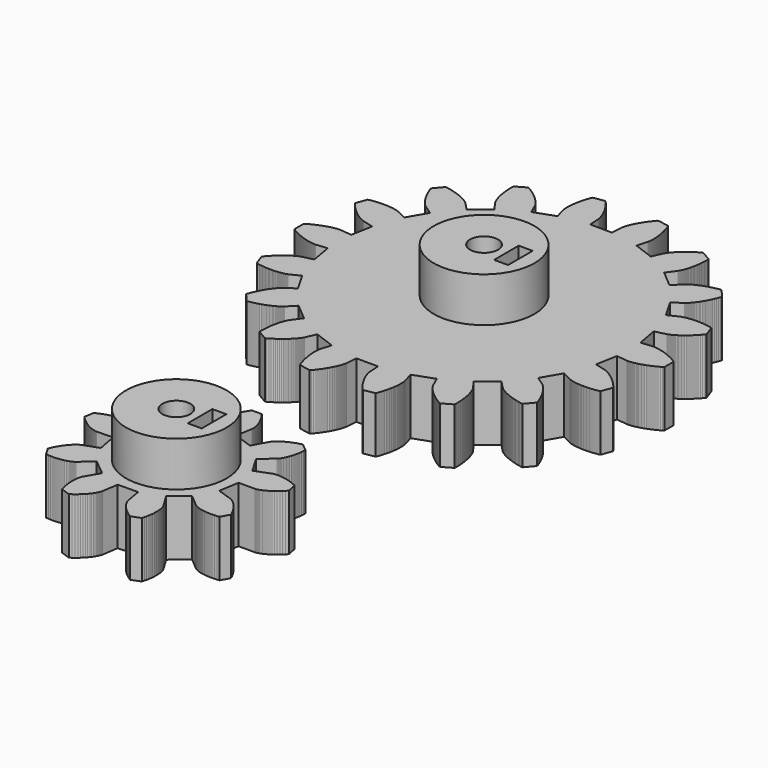
from build123d import *

# Parameters (mm, degrees)
F0_R     = 9
F1_DEPTH = 10
F0_R_2   = 2.5
F0_W     = 2.5
F0_H     = 5.5
F2_DEPTH = 18


with BuildPart() as f1:
    # F0 (on Top) → F1 (new body)
    with BuildSketch(Plane.XY):
        Polygon((25.237184, 18.592396), (25.925709, 22.398373), (27.935455, 22.187181), (27.950182, 22.186053), (27.975495, 22.184615), (28.011372, 22.183228), (28.05784, 22.182351), (28.114881, 22.182367), (28.182458, 22.183699), (28.260551, 22.18673), (28.349128, 22.191905), (28.44811, 22.199633), (28.557437, 22.210281), (28.677013, 22.224279), (28.806779, 22.242015), (28.946598, 22.263902), (29.09639, 22.290332), (29.255976, 22.321682), (29.425259, 22.358364), (29.604079, 22.400776), (29.792271, 22.449254), (29.989661, 22.504219), (30.196064, 22.56603), (30.4113, 22.635066), (30.635126, 22.711675), (30.867359, 22.796215), (31.107777, 22.889051), (31.356115, 22.990531), (31.612127, 23.100981), (31.87557, 23.220748), (32.146177, 23.35016), (32.423663, 23.489547), (32.707738, 23.639201), (32.998093, 23.799434), (33.188421, 23.974207), (33.197319, 25.977627), (33.008548, 26.1541), (32.719608, 26.316898), (32.436883, 26.469066), (32.160645, 26.610895), (31.891209, 26.742714), (31.628845, 26.864813), (31.373809, 26.977527), (31.126378, 27.081208), (30.886809, 27.176189), (30.655333, 27.262786), (30.432192, 27.341375), (30.217583, 27.412315), (30.011742, 27.475942), (29.814832, 27.532661), (29.62709, 27.582826), (29.448654, 27.626804), (29.279709, 27.664997), (29.120391, 27.697769), (28.970844, 27.725528), (28.831229, 27.748657), (28.701626, 27.767548), (28.582179, 27.782607), (28.472949, 27.794227), (28.374039, 27.80282), (28.285511, 27.808779), (28.207448, 27.812516), (28.139873, 27.814449), (28.082849, 27.814973), (28.03638, 27.814508), (28.000487, 27.813452), (27.975172, 27.812206), (27.960423, 27.811212), (25.948891, 27.617891), (25.294171, 31.429815), (27.254929, 31.918736), (27.269173, 31.922728), (27.293459, 31.930013), (27.327649, 31.940984), (27.371607, 31.956058), (27.425187, 31.975571), (27.488253, 31.999936), (27.560602, 32.029516), (27.642052, 32.064671), (27.73242, 32.105761), (27.831506, 32.153167), (27.939105, 32.207231), (28.054971, 32.26828), (28.17888, 32.336658), (28.31059, 32.41273), (28.449831, 32.496787), (28.596356, 32.589153), (28.7499, 32.690158), (28.910151, 32.800075), (29.076824, 32.919254), (29.249644, 33.047924), (29.428283, 33.186401), (29.612427, 33.334938), (29.801745, 33.49381), (29.995882, 33.663274), (30.194542, 33.843563), (30.397353, 34.034936), (30.603933, 34.237572), (30.813968, 34.451746), (31.027035, 34.677602), (31.242799, 34.915396), (31.460834, 35.165273), (31.579924, 35.394615), (30.903074, 37.280241), (30.665328, 37.381522), (30.338144, 37.435684), (30.020411, 37.481982), (29.712327, 37.520774), (29.414057, 37.552484), (29.125739, 37.577478), (28.847539, 37.59618), (28.579577, 37.608977), (28.321977, 37.616278), (28.07484, 37.618492), (27.838272, 37.616029), (27.612352, 37.609281), (27.397147, 37.598682), (27.19272, 37.584647), (26.999132, 37.567569), (26.816428, 37.547864), (26.644591, 37.525956), (26.483688, 37.502277), (26.333678, 37.477213), (26.194566, 37.451184), (26.066316, 37.424614), (25.94891, 37.397906), (25.842291, 37.371467), (25.746424, 37.345721), (25.661186, 37.321041), (25.586564, 37.297851), (25.522399, 37.276566), (25.468629, 37.257535), (25.425121, 37.241211), (25.39175, 37.22793), (25.36838, 37.218125), (25.354868, 37.212132), (23.530781, 36.342491), (21.611773, 39.7006), (23.287067, 40.830664), (23.299091, 40.839277), (23.319416, 40.854431), (23.347794, 40.876432), (23.38394, 40.90563), (23.427624, 40.94231), (23.478537, 40.986765), (23.53641, 41.039304), (23.600931, 41.1002), (23.671808, 41.169724), (23.748711, 41.248151), (23.831323, 41.335735), (23.919315, 41.432751), (24.012365, 41.539393), (24.110099, 41.6559), (24.212202, 41.782527), (24.31831, 41.919431), (24.428028, 42.066855), (24.541034, 42.224973), (24.656905, 42.393948), (24.775299, 42.573978), (24.895792, 42.765207), (25.018016, 42.967755), (25.141568, 43.181802), (25.26606, 43.407452), (25.39108, 43.644806), (25.516202, 43.89399), (25.641033, 44.155085), (25.765139, 44.428157), (25.888109, 44.713289), (26.009526, 45.010525), (26.128955, 45.319911), (26.162417, 45.576144), (24.881461, 47.116576), (24.623426, 47.130413), (24.29744, 47.069411), (23.983038, 47.004245), (23.680262, 46.935334), (23.38914, 46.863113), (23.109653, 46.787988), (22.84183, 46.710414), (22.585652, 46.630794), (22.341084, 46.549554), (22.108108, 46.467095), (21.886632, 46.383869), (21.676655, 46.300255), (21.478045, 46.216709), (21.290759, 46.133595), (21.114702, 46.051325), (20.949738, 45.970332), (20.795764, 45.89097), (20.652648, 45.813692), (20.520264, 45.738832), (20.398434, 45.66679), (20.287019, 45.597961), (20.185837, 45.532704), (20.094687, 45.471401), (20.013406, 45.41441), (19.941751, 45.362078), (19.879539, 45.314763), (19.826545, 45.272811), (19.782524, 45.236547), (19.747231, 45.206317), (19.720418, 45.182429), (19.7018, 45.165213), (19.691147, 45.154973), (18.274487, 43.713873), (15.322699, 46.213154), (16.510455, 47.848047), (16.51879, 47.860253), (16.532716, 47.881429), (16.551837, 47.911815), (16.575836, 47.951626), (16.604348, 48.00102), (16.636996, 48.060218), (16.673395, 48.129378), (16.713202, 48.208659), (16.756016, 48.298242), (16.801445, 48.398229), (16.849129, 48.508798), (16.898637, 48.630054), (16.949598, 48.762076), (17.001605, 48.905007), (17.054244, 49.058911), (17.107101, 49.223851), (17.159805, 49.399906), (17.211901, 49.587145), (17.262988, 49.785569), (17.312671, 49.995219), (17.360492, 50.216125), (17.406068, 50.448266), (17.44898, 50.691665), (17.488785, 50.94629), (17.525075, 51.212083), (17.557409, 51.489031), (17.58542, 51.777072), (17.608638, 52.076134), (17.626694, 52.386117), (17.639117, 52.70695), (17.645539, 53.038531), (17.589326, 53.290766), (15.858774, 54.300169), (15.61155, 54.224918), (15.326102, 54.056095), (15.052962, 53.887341), (14.79201, 53.719029), (14.543131, 53.551591), (14.306205, 53.385422), (14.081075, 53.220918), (13.867561, 53.058478), (13.665545, 52.898497), (13.474803, 52.741318), (13.29516, 52.587379), (13.126428, 52.436982), (12.968388, 52.29053), (12.820818, 52.148387), (12.68351, 52.010855), (12.556203, 51.878323), (12.438651, 51.751096), (12.330607, 51.629521), (12.231806, 51.513907), (12.141955, 51.404545), (12.06081, 51.30176), (11.988039, 51.205829), (11.923351, 51.117043), (11.866477, 51.035689), (11.81704, 50.962008), (11.774769, 50.896269), (11.739309, 50.83871), (11.710344, 50.789584), (11.687518, 50.749109), (11.670492, 50.7175), (11.658906, 50.694957), (11.652382, 50.681678), (10.814047, 48.84297), (7.185464, 50.18195), (7.742424, 52.124481), (7.746093, 52.138801), (7.751912, 52.163473), (7.759508, 52.198577), (7.768448, 52.244178), (7.778338, 52.300337), (7.788763, 52.367119), (7.799327, 52.444565), (7.809592, 52.532701), (7.819195, 52.631505), (7.827681, 52.741024), (7.834664, 52.86122), (7.839745, 52.992094), (7.842456, 53.133595), (7.842453, 53.285679), (7.839269, 53.448295), (7.832538, 53.621381), (7.821829, 53.804843), (7.806752, 53.998601), (7.786915, 54.202536), (7.761885, 54.416533), (7.731268, 54.640474), (7.694689, 54.874217), (7.651771, 55.117602), (7.602077, 55.370474), (7.545269, 55.632669), (7.480964, 55.903987), (7.408763, 56.184228), (7.328302, 56.473191), (7.239218, 56.770654), (7.141166, 57.076392), (7.033801, 57.390161), (6.894711, 57.607952), (4.923293, 57.964595), (4.716725, 57.80934), (4.506213, 57.553083), (4.307265, 57.30106), (4.119622, 57.053659), (3.943017, 56.811208), (3.777203, 56.574014), (3.621915, 56.342426), (3.476848, 56.116776), (3.341729, 55.897332), (3.216231, 55.68441), (3.100084, 55.478299), (2.992976, 55.279272), (2.894556, 55.087606), (2.804509, 54.903555), (2.722499, 54.727354), (2.648195, 54.559279), (2.581258, 54.399525), (2.521308, 54.248313), (2.468011, 54.105878), (2.420983, 53.972381), (2.379885, 53.848037), (2.344315, 53.73301), (2.313907, 53.627457), (2.288259, 53.531542), (2.267024, 53.445401), (2.249777, 53.369178), (2.236147, 53.302974), (2.225724, 53.24689), (2.218121, 53.201048), (2.212944, 53.16551), (2.20976, 53.14036), (2.208174, 53.125661), (2.049269, 51.111121), (-1.818454, 51.1283), (-1.95947, 53.144171), (-1.960908, 53.158887), (-1.963872, 53.184062), (-1.968748, 53.219635), (-1.975943, 53.26555), (-1.985868, 53.321708), (-1.998912, 53.388032), (-2.015465, 53.464421), (-2.035944, 53.55074), (-2.060719, 53.646886), (-2.090208, 53.752703), (-2.124748, 53.868027), (-2.164752, 53.992741), (-2.210582, 54.126641), (-2.262618, 54.269549), (-2.32122, 54.421281), (-2.386749, 54.581634), (-2.459551, 54.750365), (-2.53999, 54.927272), (-2.628387, 55.112127), (-2.725115, 55.30465), (-2.830456, 55.504629), (-2.944761, 55.711761), (-3.06836, 55.925781), (-3.201522, 56.146415), (-3.344578, 56.373358), (-3.497821, 56.606321), (-3.661527, 56.844951), (-3.835946, 57.088974), (-4.021395, 57.338044), (-4.218111, 57.591803), (-4.426328, 57.849938), (-4.631503, 58.007017), (-6.606027, 57.6679), (-6.747034, 57.45134), (-6.857185, 57.138534), (-6.957946, 56.833678), (-7.049672, 56.537008), (-7.132678, 56.248777), (-7.207362, 55.969188), (-7.274103, 55.698461), (-7.33324, 55.436793), (-7.385156, 55.184362), (-7.430249, 54.941372), (-7.468886, 54.707961), (-7.50149, 54.484294), (-7.528425, 54.27053), (-7.550082, 54.066769), (-7.566883, 53.873176), (-7.579204, 53.689811), (-7.587471, 53.516798), (-7.592099, 53.354202), (-7.593458, 53.202121), (-7.591984, 53.060601), (-7.588093, 52.929685), (-7.582179, 52.809436), (-7.574646, 52.699836), (-7.565926, 52.60095), (-7.556425, 52.51274), (-7.546562, 52.43521), (-7.536723, 52.368322), (-7.527348, 52.312081), (-7.518808, 52.266386), (-7.511525, 52.231221), (-7.505927, 52.20651), (-7.502388, 52.192154), (-6.962697, 50.244752), (-10.60303, 48.938058), (-11.425002, 50.784121), (-11.431395, 50.797455), (-11.442777, 50.820109), (-11.459535, 50.851862), (-11.482005, 50.89255), (-11.510533, 50.941929), (-11.545482, 50.999796), (-11.587158, 51.065904), (-11.635926, 51.140029), (-11.692095, 51.221884), (-11.75599, 51.311243), (-11.827902, 51.407816), (-11.908142, 51.511314), (-11.997018, 51.62147), (-12.094786, 51.73795), (-12.201755, 51.860486), (-12.318158, 51.988762), (-12.444294, 52.122408), (-12.580373, 52.261146), (-12.726675, 52.404605), (-12.883395, 52.552445), (-13.050789, 52.704332), (-13.229057, 52.859886), (-13.418399, 53.018727), (-13.618992, 53.180514), (-13.83104, 53.344828), (-14.054718, 53.511325), (-14.290151, 53.679599), (-14.537542, 53.84923), (-14.79697, 54.019845), (-15.068619, 54.191044), (-15.352553, 54.362392), (-15.599097, 54.439814), (-17.338545, 53.445817), (-17.396976, 53.194111), (-17.393526, 52.862474), (-17.383941, 52.541552), (-17.368655, 52.231411), (-17.348078, 51.932153), (-17.32264, 51.643884), (-17.292735, 51.366666), (-17.258818, 51.100546), (-17.221264, 50.845583), (-17.180528, 50.601827), (-17.137032, 50.36928), (-17.091156, 50.147943), (-17.043335, 49.937861), (-16.994017, 49.738981), (-16.943581, 49.551304), (-16.892452, 49.374794), (-16.841059, 49.209374), (-16.789784, 49.055027), (-16.739041, 48.911634), (-16.689254, 48.779161), (-16.640817, 48.657488), (-16.594141, 48.546498), (-16.549579, 48.446088), (-16.507563, 48.356144), (-16.468471, 48.276504), (-16.432679, 48.207029), (-16.400565, 48.147536), (-16.372506, 48.097886), (-16.348863, 48.057876), (-16.329996, 48.027323), (-16.316269, 48.006006), (-16.308021, 47.993739), (-15.134842, 46.348374), (-18.108709, 43.875391), (-19.512527, 45.329002), (-19.52308, 45.339347), (-19.541528, 45.356733), (-19.568144, 45.380848), (-19.603159, 45.411394), (-19.64687, 45.448044), (-19.699491, 45.490459), (-19.761276, 45.538324), (-19.832441, 45.591303), (-19.913225, 45.649019), (-20.003825, 45.711133), (-20.104439, 45.777284), (-20.215227, 45.847089), (-20.336405, 45.92021), (-20.468136, 45.996244), (-20.61056, 46.074803), (-20.763819, 46.155503), (-20.92805, 46.237978), (-21.103379, 46.321799), (-21.289929, 46.406559), (-21.48778, 46.491886), (-21.697016, 46.577348), (-21.917719, 46.662552), (-22.149974, 46.747067), (-22.393805, 46.830475), (-22.649274, 46.912381), (-22.91639, 46.992326), (-23.195192, 47.069913), (-23.485667, 47.14472), (-23.78782, 47.216307), (-24.101633, 47.284271), (-24.427054, 47.348165), (-24.685213, 47.336612), (-25.979782, 45.807629), (-25.948602, 45.551113), (-25.831932, 45.240674), (-25.713144, 44.942373), (-25.592725, 44.656162), (-25.47104, 44.381999), (-25.348537, 44.119812), (-25.225624, 43.869521), (-25.102732, 43.631054), (-24.98025, 43.40431), (-24.85859, 43.189192), (-24.738168, 42.985544), (-24.619376, 42.793267), (-24.502592, 42.612199), (-24.388212, 42.442184), (-24.276632, 42.28308), (-24.168213, 42.134688), (-24.063336, 41.996825), (-23.96238, 41.869311), (-23.865667, 41.75194), (-23.773564, 41.64447), (-23.686431, 41.546699), (-23.604596, 41.458379), (-23.528404, 41.379268), (-23.458143, 41.309114), (-23.394182, 41.247637), (-23.336767, 41.194601), (-23.286253, 41.149683), (-23.242905, 41.11263), (-23.207, 41.083112), (-23.178826, 41.060857), (-23.158641, 41.045513), (-23.146694, 41.036804), (-21.48151, 39.891925), (-23.43023, 36.550956), (-25.246537, 37.436782), (-25.26, 37.442885), (-25.283289, 37.452906), (-25.316542, 37.466479), (-25.359903, 37.483197), (-25.413493, 37.502674), (-25.477449, 37.524542), (-25.551876, 37.548392), (-25.636874, 37.573835), (-25.732528, 37.600437), (-25.838899, 37.627825), (-25.956071, 37.655567), (-26.084065, 37.683285), (-26.222946, 37.710544), (-26.372738, 37.736926), (-26.53344, 37.762051), (-26.70506, 37.785478), (-26.88758, 37.806785), (-27.081024, 37.825574), (-27.285295, 37.841434), (-27.500395, 37.853945), (-27.726248, 37.862697), (-27.962799, 37.867264), (-28.209929, 37.867253), (-28.467601, 37.86224), (-28.735659, 37.851827), (-29.014026, 37.835586), (-29.302539, 37.813159), (-29.601086, 37.784092), (-29.909505, 37.74803), (-30.227618, 37.704551), (-30.555283, 37.653302), (-30.793921, 37.554148), (-31.487469, 35.674598), (-31.370438, 35.444219), (-31.154625, 35.192399), (-30.940984, 34.952708), (-30.729935, 34.724949), (-30.521818, 34.508939), (-30.317038, 34.304458), (-30.115933, 34.111323), (-29.918893, 33.929273), (-29.72624, 33.758083), (-29.53834, 33.59753), (-29.355538, 33.44737), (-29.178126, 33.307312), (-29.00647, 33.177096), (-28.84084, 33.056469), (-28.681568, 32.945105), (-28.528942, 32.842753), (-28.383238, 32.749083), (-28.244745, 32.663804), (-28.113722, 32.586563), (-27.990418, 32.517086), (-27.875113, 32.455), (-27.767997, 32.400006), (-27.669331, 32.35173), (-27.579333, 32.309814), (-27.498196, 32.273939), (-27.426102, 32.243722), (-27.363267, 32.218806), (-27.309853, 32.198807), (-27.266037, 32.183363), (-27.231943, 32.172067), (-27.207728, 32.164573), (-27.193535, 32.160457), (-25.237185, 31.654155), (-25.92571, 27.848177), (-27.935456, 28.05937), (-27.950183, 28.060497), (-27.975496, 28.061935), (-28.011373, 28.063322), (-28.057841, 28.064199), (-28.114882, 28.064184), (-28.182459, 28.062852), (-28.260552, 28.05982), (-28.349129, 28.054645), (-28.448111, 28.046917), (-28.557438, 28.036269), (-28.677014, 28.022271), (-28.80678, 28.004536), (-28.946599, 27.982648), (-29.096391, 27.956219), (-29.255977, 27.924868), (-29.42526, 27.888186), (-29.60408, 27.845775), (-29.792272, 27.797296), (-29.989662, 27.742331), (-30.196065, 27.680521), (-30.411301, 27.611484), (-30.635127, 27.534875), (-30.86736, 27.450335), (-31.107778, 27.357499), (-31.356116, 27.256019), (-31.612128, 27.145569), (-31.875571, 27.025803), (-32.146178, 26.896391), (-32.423664, 26.757003), (-32.707739, 26.60735), (-32.998094, 26.447117), (-33.188422, 26.272343), (-33.19732, 24.268923), (-33.008549, 24.092451), (-32.719609, 23.929652), (-32.436884, 23.777485), (-32.160646, 23.635655), (-31.89121, 23.503837), (-31.628846, 23.381737), (-31.37381, 23.269023), (-31.126379, 23.165342), (-30.88681, 23.070362), (-30.655334, 22.983764), (-30.432193, 22.905176), (-30.217584, 22.834236), (-30.011743, 22.770608), (-29.814833, 22.713889), (-29.627091, 22.663724), (-29.448655, 22.619746), (-29.27971, 22.581554), (-29.120392, 22.548781), (-28.970845, 22.521022), (-28.83123, 22.497893), (-28.701627, 22.479002), (-28.58218, 22.463944), (-28.47295, 22.452323), (-28.37404, 22.44373), (-28.285512, 22.437771), (-28.207449, 22.434034), (-28.139874, 22.432101), (-28.08285, 22.431577), (-28.036381, 22.432042), (-28.000488, 22.433098), (-27.975173, 22.434344), (-27.960424, 22.435338), (-25.948892, 22.628659), (-25.294172, 18.816736), (-27.25493, 18.327815), (-27.269173, 18.323822), (-27.29346, 18.316538), (-27.32765, 18.305566), (-27.371608, 18.290492), (-27.425188, 18.27098), (-27.488254, 18.246615), (-27.560603, 18.217034), (-27.642053, 18.181879), (-27.732421, 18.14079), (-27.831507, 18.093384), (-27.939106, 18.039319), (-28.054972, 17.97827), (-28.178881, 17.909893), (-28.310591, 17.83382), (-28.449832, 17.749764), (-28.596357, 17.657397), (-28.749901, 17.556392), (-28.910152, 17.446476), (-29.076825, 17.327297), (-29.249645, 17.198626), (-29.428284, 17.060149), (-29.612428, 16.911612), (-29.801746, 16.752741), (-29.995883, 16.583276), (-30.194543, 16.402987), (-30.397354, 16.211615), (-30.603934, 16.008978), (-30.813969, 15.794804), (-31.027036, 15.568948), (-31.2428, 15.331154), (-31.460835, 15.081278), (-31.579925, 14.851935), (-30.903075, 12.966309), (-30.665329, 12.865029), (-30.338145, 12.810866), (-30.020412, 12.764569), (-29.712328, 12.725777), (-29.414058, 12.694066), (-29.12574, 12.669072), (-28.84754, 12.650371), (-28.579578, 12.637573), (-28.321978, 12.630273), (-28.074841, 12.628059), (-27.838273, 12.630522), (-27.612353, 12.63727), (-27.397148, 12.647868), (-27.192721, 12.661904), (-26.999133, 12.678982), (-26.816429, 12.698686), (-26.644592, 12.720595), (-26.483689, 12.744273), (-26.333679, 12.769337), (-26.194567, 12.795367), (-26.066317, 12.821936), (-25.948911, 12.848644), (-25.842292, 12.875084), (-25.746424, 12.90083), (-25.661187, 12.925509), (-25.586565, 12.9487), (-25.5224, 12.969984), (-25.46863, 12.989016), (-25.425122, 13.005339), (-25.391751, 13.018621), (-25.368381, 13.028426), (-25.354869, 13.034418), (-23.530782, 13.904059), (-21.611774, 10.545951), (-23.287068, 9.415886), (-23.299092, 9.407273), (-23.319417, 9.392119), (-23.347795, 9.370119), (-23.383941, 9.340921), (-23.427625, 9.304241), (-23.478538, 9.259785), (-23.536411, 9.207246), (-23.600932, 9.14635), (-23.671809, 9.076827), (-23.748712, 8.998399), (-23.831324, 8.910815), (-23.919316, 8.813799), (-24.012366, 8.707157), (-24.1101, 8.59065), (-24.212203, 8.464023), (-24.318311, 8.327119), (-24.428029, 8.179695), (-24.541035, 8.021578), (-24.656906, 7.852602), (-24.7753, 7.672572), (-24.895793, 7.481343), (-25.018017, 7.278796), (-25.141569, 7.064748), (-25.266061, 6.839099), (-25.391081, 6.601744), (-25.516203, 6.35256), (-25.641034, 6.091465), (-25.76514, 5.818393), (-25.88811, 5.533261), (-26.009527, 5.236025), (-26.128956, 4.926639), (-26.162418, 4.670406), (-24.881462, 3.129975), (-24.623427, 3.116137), (-24.297441, 3.17714), (-23.983039, 3.242305), (-23.680263, 3.311217), (-23.389141, 3.383437), (-23.109654, 3.458563), (-22.841831, 3.536137), (-22.585653, 3.615756), (-22.341085, 3.696996), (-22.108109, 3.779455), (-21.886633, 3.862682), (-21.676656, 3.946295), (-21.478046, 4.029842), (-21.29076, 4.112955), (-21.114703, 4.195226), (-20.949739, 4.276218), (-20.795765, 4.35558), (-20.652649, 4.432858), (-20.520265, 4.507718), (-20.398435, 4.57976), (-20.28702, 4.64859), (-20.185838, 4.713847), (-20.094688, 4.775149), (-20.013407, 4.83214), (-19.941752, 4.884473), (-19.87954, 4.931787), (-19.826546, 4.97374), (-19.782525, 5.010004), (-19.747232, 5.040233), (-19.720419, 5.064121), (-19.701801, 5.081338), (-19.691148, 5.091578), (-18.274488, 6.532678), (-15.3227, 4.033397), (-16.510456, 2.398504), (-16.518791, 2.386297), (-16.532717, 2.365122), (-16.551838, 2.334735), (-16.575837, 2.294924), (-16.604349, 2.24553), (-16.636996, 2.186333), (-16.673396, 2.117172), (-16.713203, 2.037891), (-16.756017, 1.948308), (-16.801446, 1.848321), (-16.84913, 1.737752), (-16.898638, 1.616497), (-16.949599, 1.484475), (-17.001606, 1.341544), (-17.054245, 1.18764), (-17.107102, 1.0227), (-17.159806, 0.846644), (-17.211902, 0.659405), (-17.262989, 0.460982), (-17.312672, 0.251331), (-17.360493, 0.030425), (-17.406069, -0.201715), (-17.448981, -0.445115), (-17.488786, -0.69974), (-17.525076, -0.965533), (-17.55741, -1.242481), (-17.585421, -1.530521), (-17.608639, -1.829584), (-17.626695, -2.139567), (-17.639118, -2.460399), (-17.64554, -2.791981), (-17.589327, -3.044216), (-15.858775, -4.053619), (-15.611551, -3.978368), (-15.326103, -3.809545), (-15.052963, -3.640791), (-14.792011, -3.472478), (-14.543132, -3.305041), (-14.306206, -3.138872), (-14.081076, -2.974367), (-13.867562, -2.811928), (-13.665546, -2.651947), (-13.474804, -2.494767), (-13.295161, -2.340829), (-13.126429, -2.190432), (-12.968389, -2.04398), (-12.820819, -1.901837), (-12.683511, -1.764305), (-12.556204, -1.631772), (-12.438651, -1.504545), (-12.330608, -1.382971), (-12.231807, -1.267357), (-12.141956, -1.157994), (-12.060811, -1.05521), (-11.98804, -0.959279), (-11.923352, -0.870492), (-11.866478, -0.789139), (-11.817041, -0.715458), (-11.77477, -0.649719), (-11.73931, -0.59216), (-11.710345, -0.543034), (-11.687519, -0.502559), (-11.670493, -0.47095), (-11.658907, -0.448407), (-11.652383, -0.435128), (-10.814048, 1.40358), (-7.185465, 0.0646), (-7.742425, -1.87793), (-7.746094, -1.89225), (-7.751913, -1.916922), (-7.759509, -1.952026), (-7.768449, -1.997627), (-7.778339, -2.053787), (-7.788764, -2.120569), (-7.799328, -2.198015), (-7.809593, -2.286151), (-7.819196, -2.384954), (-7.827682, -2.494474), (-7.834665, -2.61467), (-7.839746, -2.745544), (-7.842457, -2.887044), (-7.842454, -3.039128), (-7.83927, -3.201744), (-7.832539, -3.374831), (-7.82183, -3.558293), (-7.806753, -3.75205), (-7.786916, -3.955985), (-7.761886, -4.169983), (-7.731269, -4.393923), (-7.69469, -4.627666), (-7.651772, -4.871051), (-7.602078, -5.123924), (-7.54527, -5.386119), (-7.480965, -5.657436), (-7.408764, -5.937678), (-7.328303, -6.226641), (-7.239219, -6.524104), (-7.141167, -6.829841), (-7.033802, -7.14361), (-6.894712, -7.361402), (-4.923294, -7.718045), (-4.716726, -7.562789), (-4.506214, -7.306532), (-4.307266, -7.054509), (-4.119623, -6.807108), (-3.943018, -6.564658), (-3.777204, -6.327464), (-3.621916, -6.095876), (-3.476849, -5.870225), (-3.34173, -5.650782), (-3.216232, -5.43786), (-3.100085, -5.231749), (-2.992977, -5.032722), (-2.894557, -4.841056), (-2.80451, -4.657005), (-2.7225, -4.480804), (-2.648196, -4.312729), (-2.581259, -4.152975), (-2.521309, -4.001763), (-2.468012, -3.859328), (-2.420984, -3.725831), (-2.379886, -3.601487), (-2.344316, -3.48646), (-2.313908, -3.380907), (-2.28826, -3.284992), (-2.267025, -3.19885), (-2.249778, -3.122628), (-2.236148, -3.056423), (-2.225725, -3.00034), (-2.218122, -2.954498), (-2.212945, -2.918959), (-2.20976, -2.89381), (-2.208175, -2.879111), (-2.04927, -0.86457), (1.818453, -0.88175), (1.959469, -2.89762), (1.960907, -2.912337), (1.963871, -2.937511), (1.968747, -2.973085), (1.975942, -3.018999), (1.985867, -3.075158), (1.998911, -3.141482), (2.015464, -3.217871), (2.035943, -3.304189), (2.060718, -3.400335), (2.090207, -3.506153), (2.124747, -3.621477), (2.164751, -3.74619), (2.210581, -3.880091), (2.262617, -4.022999), (2.321219, -4.17473), (2.386748, -4.335084), (2.45955, -4.503815), (2.539989, -4.680721), (2.628386, -4.865577), (2.725114, -5.058099), (2.830455, -5.258079), (2.94476, -5.465211), (3.068359, -5.67923), (3.201521, -5.899864), (3.344577, -6.126808), (3.49782, -6.35977), (3.661526, -6.5984), (3.835945, -6.842424), (4.021394, -7.091493), (4.21811, -7.345253), (4.426327, -7.603387), (4.631502, -7.760467), (6.606026, -7.42135), (6.747033, -7.204789), (6.857184, -6.891984), (6.957945, -6.587128), (7.049671, -6.290457), (7.132677, -6.002227), (7.207361, -5.722638), (7.274102, -5.451911), (7.333239, -5.190242), (7.385155, -4.937812), (7.430248, -4.694822), (7.468885, -4.461411), (7.501489, -4.237744), (7.528424, -4.023979), (7.550081, -3.820218), (7.566882, -3.626625), (7.579203, -3.44326), (7.58747, -3.270248), (7.592098, -3.107651), (7.593457, -2.95557), (7.591983, -2.81405), (7.588092, -2.683135), (7.582179, -2.562886), (7.574645, -2.453286), (7.565925, -2.354399), (7.556424, -2.266189), (7.546561, -2.18866), (7.536722, -2.121772), (7.527347, -2.065531), (7.518807, -2.019835), (7.511524, -1.98467), (7.505926, -1.95996), (7.502387, -1.945604), (6.962696, 0.001798), (10.603029, 1.308493), (11.425001, -0.537571), (11.431394, -0.550905), (11.442776, -0.573558), (11.459534, -0.605312), (11.482004, -0.646), (11.510532, -0.695379), (11.545481, -0.753246), (11.587157, -0.819353), (11.635925, -0.893479), (11.692094, -0.975334), (11.755989, -1.064693), (11.827901, -1.161265), (11.908141, -1.264764), (11.997017, -1.37492), (12.094785, -1.4914), (12.201754, -1.613936), (12.318157, -1.742211), (12.444293, -1.875858), (12.580372, -2.014596), (12.726674, -2.158055), (12.883394, -2.305895), (13.050788, -2.457781), (13.229056, -2.613335), (13.418398, -2.772177), (13.618991, -2.933964), (13.831039, -3.098277), (14.054717, -3.264775), (14.29015, -3.433048), (14.537541, -3.602679), (14.796969, -3.773295), (15.068618, -3.944494), (15.352552, -4.115842), (15.599096, -4.193264), (17.338544, -3.199267), (17.396975, -2.947561), (17.393525, -2.615924), (17.38394, -2.295002), (17.368654, -1.98486), (17.348077, -1.685603), (17.322639, -1.397334), (17.292734, -1.120115), (17.258817, -0.853995), (17.221263, -0.599033), (17.180527, -0.355276), (17.137031, -0.122729), (17.091155, 0.098608), (17.043334, 0.30869), (16.994016, 0.507569), (16.94358, 0.695246), (16.892451, 0.871757), (16.841058, 1.037176), (16.789783, 1.191523), (16.73904, 1.334916), (16.689253, 1.467389), (16.640816, 1.589063), (16.59414, 1.700052), (16.549578, 1.800462), (16.507562, 1.890406), (16.46847, 1.970046), (16.432678, 2.039522), (16.400564, 2.099014), (16.372505, 2.148665), (16.348862, 2.188675), (16.329995, 2.219227), (16.316268, 2.240544), (16.30802, 2.252811), (15.134841, 3.898176), (18.108708, 6.37116), (19.512526, 4.917548), (19.523079, 4.907203), (19.541527, 4.889817), (19.568143, 4.865703), (19.603158, 4.835156), (19.646869, 4.798506), (19.69949, 4.756092), (19.761275, 4.708226), (19.83244, 4.655247), (19.913224, 4.597531), (20.003824, 4.535418), (20.104438, 4.469266), (20.215226, 4.399461), (20.336404, 4.32634), (20.468135, 4.250307), (20.610559, 4.171747), (20.763818, 4.091047), (20.928049, 4.008573), (21.103378, 3.924751), (21.289928, 3.839991), (21.487779, 3.754664), (21.697015, 3.669203), (21.917718, 3.583998), (22.149973, 3.499483), (22.393804, 3.416075), (22.649273, 3.334169), (22.916389, 3.254224), (23.195191, 3.176637), (23.485666, 3.10183), (23.787819, 3.030243), (24.101632, 2.96228), (24.427053, 2.898385), (24.685212, 2.909939), (25.979781, 4.438921), (25.948601, 4.695437), (25.831931, 5.005877), (25.713143, 5.304177), (25.592724, 5.590388), (25.471039, 5.864551), (25.348536, 6.126739), (25.225623, 6.377029), (25.102731, 6.615497), (24.980249, 6.842241), (24.858589, 7.057359), (24.738167, 7.261007), (24.619375, 7.453284), (24.502591, 7.634351), (24.388211, 7.804367), (24.276631, 7.96347), (24.168212, 8.111863), (24.063335, 8.249726), (23.962379, 8.377239), (23.865666, 8.49461), (23.773563, 8.60208), (23.68643, 8.699852), (23.604595, 8.788171), (23.528403, 8.867282), (23.458142, 8.937436), (23.394181, 8.998914), (23.336766, 9.05195), (23.286252, 9.096868), (23.242904, 9.13392), (23.206999, 9.163438), (23.178825, 9.185693), (23.15864, 9.201037), (23.146693, 9.209746), (21.481509, 10.354626), (23.430229, 13.695595), (25.246536, 12.809768), (25.259999, 12.803665), (25.283288, 12.793644), (25.316541, 12.780072), (25.359902, 12.763353), (25.413492, 12.743877), (25.477448, 12.722008), (25.551875, 12.698158), (25.636873, 12.672716), (25.732527, 12.646113), (25.838898, 12.618725), (25.95607, 12.590983), (26.084064, 12.563266), (26.222945, 12.536007), (26.372737, 12.509625), (26.533439, 12.4845), (26.705059, 12.461073), (26.887579, 12.439765), (27.081023, 12.420976), (27.285294, 12.405116), (27.500394, 12.392606), (27.726247, 12.383854), (27.962798, 12.379286), (28.209928, 12.379297), (28.4676, 12.38431), (28.735658, 12.394723), (29.014025, 12.410964), (29.302538, 12.433392), (29.601085, 12.462458), (29.909504, 12.498521), (30.227617, 12.541999), (30.555282, 12.593249), (30.79392, 12.692402), (31.487468, 14.571953), (31.370437, 14.802331), (31.154624, 15.054151), (30.940983, 15.293843), (30.729934, 15.521601), (30.521817, 15.737612), (30.317037, 15.942092), (30.115932, 16.135227), (29.918892, 16.317277), (29.726239, 16.488467), (29.538339, 16.64902), (29.355537, 16.799181), (29.178125, 16.939238), (29.00647, 17.069454), (28.840839, 17.190082), (28.681567, 17.301446), (28.528941, 17.403797), (28.383237, 17.497467), (28.244744, 17.582746), (28.113721, 17.659987), (27.990417, 17.729465), (27.875112, 17.791551), (27.767996, 17.846545), (27.66933, 17.894821), (27.579332, 17.936736), (27.498195, 17.972611), (27.426101, 18.002828), (27.363266, 18.027744), (27.309852, 18.047743), (27.266036, 18.063187), (27.231942, 18.074484), (27.207727, 18.081977), (27.193534, 18.086094), align=None)
        with Locations((-1e-06, 25.123275)):
            Circle(F0_R, mode=Mode.SUBTRACT)
        Polygon((8.028177, -44.081047), (8.617678, -40.5077), (11.537565, -40.50768), (11.55761, -40.506864), (11.598675, -40.503695), (11.660582, -40.496503), (11.743012, -40.483711), (11.845645, -40.463686), (11.967985, -40.434875), (12.109452, -40.395722), (12.26945, -40.344694), (12.4472, -40.280316), (12.641887, -40.201135), (12.852594, -40.105774), (13.078344, -39.992859), (13.318082, -39.861115), (13.570611, -39.709306), (13.834736, -39.536238), (14.109163, -39.340794), (14.392536, -39.121977), (14.683421, -38.878773), (14.980304, -38.610304), (15.281689, -38.315773), (15.583772, -37.994741), (15.263497, -36.288605), (14.865536, -36.098999), (14.477875, -35.933801), (14.103823, -35.791297), (13.744556, -35.670153), (13.401109, -35.568974), (13.074479, -35.486385), (12.765562, -35.420892), (12.475175, -35.37098), (12.203996, -35.335154), (11.952662, -35.311802), (11.721692, -35.299349), (11.511543, -35.296181), (11.322555, -35.300644), (11.154965, -35.311105), (11.008895, -35.325929), (10.884444, -35.343443), (10.781551, -35.362013), (10.700078, -35.379986), (10.639785, -35.395746), (10.600373, -35.407661), (10.581385, -35.414177), (7.86029, -36.47311), (6.014977, -33.356823), (8.251716, -31.479949), (8.26656, -31.46644), (8.295969, -31.437608), (8.338768, -31.392319), (8.393701, -31.329515), (8.459454, -31.248221), (8.534651, -31.14752), (8.617857, -31.026576), (8.707599, -30.88465), (8.802383, -30.721086), (8.900633, -30.535285), (9.000756, -30.32679), (9.101118, -30.095182), (9.200065, -29.840162), (9.295944, -29.561531), (9.387022, -29.25919), (9.471643, -28.933077), (9.548035, -28.583294), (9.614545, -28.21002), (9.669418, -27.813512), (9.710942, -27.394171), (9.736008, -26.954068), (8.39398, -25.852974), (7.967247, -25.963517), (7.564105, -26.086176), (7.185968, -26.217441), (6.832858, -26.355561), (6.504753, -26.498822), (6.201455, -26.64549), (5.922704, -26.793891), (5.668163, -26.942332), (5.437391, -27.089199), (5.229853, -27.232859), (5.044929, -27.371776), (4.881903, -27.504436), (4.739997, -27.629326), (4.618335, -27.74509), (4.51598, -27.850314), (4.431897, -27.943722), (4.365009, -28.0241), (4.31416, -28.090231), (4.278096, -28.141059), (4.255561, -28.175529), (4.24522, -28.192725), (2.841405, -30.752986), (-0.575292, -29.551928), (-0.0683, -26.676413), (-0.06561, -26.656528), (-0.061606, -26.615523), (-0.057939, -26.553317), (-0.056226, -26.469911), (-0.058119, -26.365365), (-0.065252, -26.239897), (-0.079239, -26.093747), (-0.101715, -25.927334), (-0.134252, -25.741115), (-0.178406, -25.535628), (-0.23573, -25.311552), (-0.307719, -25.069623), (-0.395847, -24.810678), (-0.501509, -24.535613), (-0.62608, -24.245426), (-0.770895, -23.941231), (-0.937189, -23.624185), (-1.126178, -23.295482), (-1.339016, -22.956479), (-1.576741, -22.608548), (-1.840448, -22.255298), (-3.576253, -22.274446), (-3.83209, -22.633435), (-4.062084, -22.986525), (-4.267391, -23.330152), (-4.449087, -23.662919), (-4.608368, -23.983572), (-4.746428, -24.290895), (-4.864563, -24.583732), (-4.964128, -24.861068), (-5.046518, -25.121906), (-5.113147, -25.365369), (-5.16551, -25.590661), (-5.205141, -25.797064), (-5.233554, -25.98396), (-5.252343, -26.150832), (-5.263123, -26.297221), (-5.267486, -26.422828), (-5.267068, -26.527394), (-5.263521, -26.610741), (-5.25846, -26.672847), (-5.253559, -26.713753), (-5.25043, -26.733578), (-4.680117, -29.597217), (-8.069497, -30.873353), (-9.52944, -28.344673), (-9.54018, -28.327717), (-9.563452, -28.293744), (-9.600632, -28.243733), (-9.652935, -28.178737), (-9.721577, -28.099874), (-9.807713, -28.008339), (-9.912359, -27.905387), (-10.036531, -27.792352), (-10.181167, -27.670591), (-10.347082, -27.541576), (-10.535014, -27.406784), (-10.745681, -27.267727), (-10.979641, -27.125981), (-11.23739, -26.983198), (-11.519329, -26.840994), (-11.825795, -26.701041), (-12.156988, -26.565053), (-12.513047, -26.434743), (-12.893993, -26.311866), (-13.299746, -26.198134), (-13.72883, -26.097035), (-15.04623, -27.227459), (-15.011461, -27.666904), (-14.960692, -28.085229), (-14.897072, -28.480422), (-14.822373, -28.852142), (-14.73827, -29.200152), (-14.646475, -29.524311), (-14.548743, -29.824581), (-14.446747, -30.10104), (-14.342201, -30.353809), (-14.236758, -30.583145), (-14.132052, -30.789369), (-14.029737, -30.972958), (-13.931368, -31.13439), (-13.838497, -31.274303), (-13.752641, -31.393375), (-13.675252, -31.492402), (-13.607726, -31.572241), (-13.551418, -31.633809), (-13.507643, -31.678143), (-13.477596, -31.706317), (-13.462453, -31.719487), (-11.184848, -33.546568), (-12.960981, -36.702805), (-15.704771, -35.704165), (-15.723879, -35.698068), (-15.76357, -35.68701), (-15.824181, -35.672584), (-15.906033, -35.656425), (-16.009324, -35.640126), (-16.134135, -35.625362), (-16.280464, -35.613765), (-16.448252, -35.607011), (-16.6373, -35.606712), (-16.847329, -35.614523), (-17.077961, -35.632057), (-17.328717, -35.660948), (-17.599039, -35.70275), (-17.88827, -35.759039), (-18.195673, -35.831346), (-18.520391, -35.921128), (-18.861506, -36.029839), (-19.218024, -36.158893), (-19.588828, -36.309626), (-19.972763, -36.483312), (-20.36644, -36.681665), (-20.648997, -38.394437), (-20.3399, -38.708733), (-20.032099, -38.99655), (-19.729359, -39.258404), (-19.433194, -39.495133), (-19.145059, -39.707652), (-18.866388, -39.89698), (-18.598516, -40.06419), (-18.34268, -40.2104), (-18.100113, -40.336824), (-17.871912, -40.444718), (-17.659153, -40.535416), (-17.462772, -40.610274), (-17.283647, -40.670707), (-17.122573, -40.718188), (-16.980249, -40.754232), (-16.857312, -40.780334), (-16.75428, -40.798087), (-16.671571, -40.809066), (-16.609525, -40.814864), (-16.5684, -40.817155), (-16.548335, -40.817514), (-13.629165, -40.753116), (-12.960981, -44.312595), (-15.704751, -45.311276), (-15.723321, -45.318887), (-15.76082, -45.335923), (-15.81653, -45.363858), (-15.889615, -45.404066), (-15.979218, -45.457983), (-16.084302, -45.526904), (-16.203872, -45.612083), (-16.336752, -45.714756), (-16.481766, -45.83604), (-16.637639, -45.977029), (-16.803016, -46.13872), (-16.976543, -46.32203), (-17.156745, -46.527815), (-17.342127, -46.756853), (-17.531135, -47.009821), (-17.722176, -47.287336), (-17.913615, -47.589877), (-18.103759, -47.917902), (-18.290934, -48.27171), (-18.473388, -48.65156), (-18.647472, -49.056555), (-17.762982, -50.550251), (-17.324174, -50.592313), (-16.903378, -50.614948), (-16.503145, -50.620945), (-16.124112, -50.611899), (-15.766778, -50.589504), (-15.431599, -50.555412), (-15.118917, -50.511298), (-14.828968, -50.458875), (-14.561874, -50.399798), (-14.317713, -50.335779), (-14.096426, -50.268472), (-13.897874, -50.199592), (-13.721797, -50.130751), (-13.567896, -50.063584), (-13.435714, -49.999724), (-13.324751, -49.940686), (-13.234412, -49.888065), (-13.163997, -49.843293), (-13.11275, -49.807886), (-13.079774, -49.783179), (-13.064173, -49.770567), (-10.869356, -47.844837), (-8.069497, -50.142048), (-9.529401, -52.670748), (-9.538725, -52.688521), (-9.556518, -52.725661), (-9.581245, -52.782866), (-9.611372, -52.860653), (-9.645364, -52.959541), (-9.681568, -53.079888), (-9.718389, -53.221993), (-9.754194, -53.386075), (-9.78731, -53.572194), (-9.816101, -53.78037), (-9.838875, -54.010544), (-9.853959, -54.262515), (-9.859737, -54.535986), (-9.854516, -54.830596), (-9.836704, -55.145889), (-9.804664, -55.481267), (-9.756844, -55.836091), (-9.69165, -56.209585), (-9.607606, -56.600931), (-9.503219, -57.009194), (-9.376237, -57.431325), (-7.738563, -58.007018), (-7.37537, -57.757198), (-7.038479, -57.504051), (-6.728027, -57.251383), (-6.443479, -57.000826), (-6.184135, -56.753975), (-5.949299, -56.512405), (-5.738114, -56.277629), (-5.549704, -56.051082), (-5.383091, -55.834158), (-5.2372, -55.628154), (-5.110935, -55.434363), (-5.003101, -55.253963), (-4.912483, -55.088067), (-4.837744, -54.937673), (-4.777551, -54.803777), (-4.730508, -54.687256), (-4.695121, -54.588867), (-4.669956, -54.509306), (-4.653458, -54.449232), (-4.644073, -54.409123), (-4.640228, -54.389417), (-4.196737, -51.503423), (-0.575292, -51.463473), (-0.068241, -54.338987), (-0.063977, -54.358594), (-0.053695, -54.398483), (-0.035882, -54.458199), (-0.008964, -54.537161), (0.028575, -54.634754), (0.078188, -54.750219), (0.14133, -54.88276), (0.219357, -55.03144), (0.313622, -55.195323), (0.425401, -55.373293), (0.55591, -55.564254), (0.706303, -55.766971), (0.877658, -55.980168), (1.07103, -56.202511), (1.287336, -56.432585), (1.527452, -56.668896), (1.792175, -56.909968), (2.082183, -57.154188), (2.398134, -57.399963), (2.740525, -57.645598), (3.109137, -57.887348), (4.733721, -57.275671), (4.851358, -56.85085), (4.946719, -56.440376), (5.022115, -56.047276), (5.079041, -55.672407), (5.11903, -55.316627), (5.143657, -54.980632), (5.154516, -54.66502), (5.153221, -54.370369), (5.141426, -54.097078), (5.120763, -53.845525), (5.092928, -53.61591), (5.059554, -53.408411), (5.022334, -53.223049), (4.982922, -53.059823), (4.942973, -52.918555), (4.904119, -52.799045), (4.867975, -52.700934), (4.836115, -52.623805), (4.810133, -52.567178), (4.791543, -52.530416), (4.78182, -52.512862), (3.266485, -50.016999), (6.014977, -47.658578), (8.251756, -49.535412), (8.267636, -49.547686), (8.30113, -49.571636), (8.353154, -49.605927), (8.424545, -49.649124), (8.516021, -49.699753), (8.628258, -49.756321), (8.761815, -49.817251), (8.91717, -49.881011), (9.094722, -49.945947), (9.294749, -50.010444), (9.51747, -50.072829), (9.762986, -50.131448), (10.031296, -50.184608), (10.32234, -50.230655), (10.63592, -50.267855), (10.971775, -50.294534), (11.329508, -50.30904), (11.708661, -50.309717), (12.108655, -50.294893), (12.528833, -50.262993), (12.966605, -50.211248), (13.81794, -48.698403), (13.634969, -48.297353), (13.444187, -47.921628), (13.249241, -47.572024), (13.051904, -47.248283), (12.853849, -46.950026), (12.656732, -46.676795), (12.462184, -46.428051), (12.271801, -46.203158), (12.087096, -46.001397), (11.909564, -45.821953), (11.74066, -45.663968), (11.581719, -45.526445), (11.434055, -45.40839), (11.298943, -45.308685), (11.17754, -45.226156), (11.070942, -45.159567), (10.980183, -45.107662), (10.906222, -45.069047), (10.849914, -45.042368), (10.812037, -45.026169), (10.793307, -45.018956), align=None)
        with Locations((-2.507099, -40.5077)):
            Circle(F0_R, mode=Mode.SUBTRACT)
    extrude(amount=F1_DEPTH)

    # F0 (on Top) → F2 (join)
    with BuildSketch(Plane.XY):
        with Locations((-1e-06, 25.123275)):
            Circle(F0_R)
        with Locations((-1e-06, 25.123275)):
            Circle(F0_R_2, mode=Mode.SUBTRACT)
        with Locations((5.228514, 25.138821)):
            Rectangle(F0_W, F0_H, mode=Mode.SUBTRACT)
        with Locations((-2.507099, -40.5077)):
            Circle(F0_R)
        with Locations((-2.507099, -40.5077)):
            Circle(F0_R_2, mode=Mode.SUBTRACT)
        with Locations((2.694257, -40.153196)):
            Rectangle(F0_W, F0_H, mode=Mode.SUBTRACT)
    extrude(amount=F2_DEPTH)


solid = f1.part
